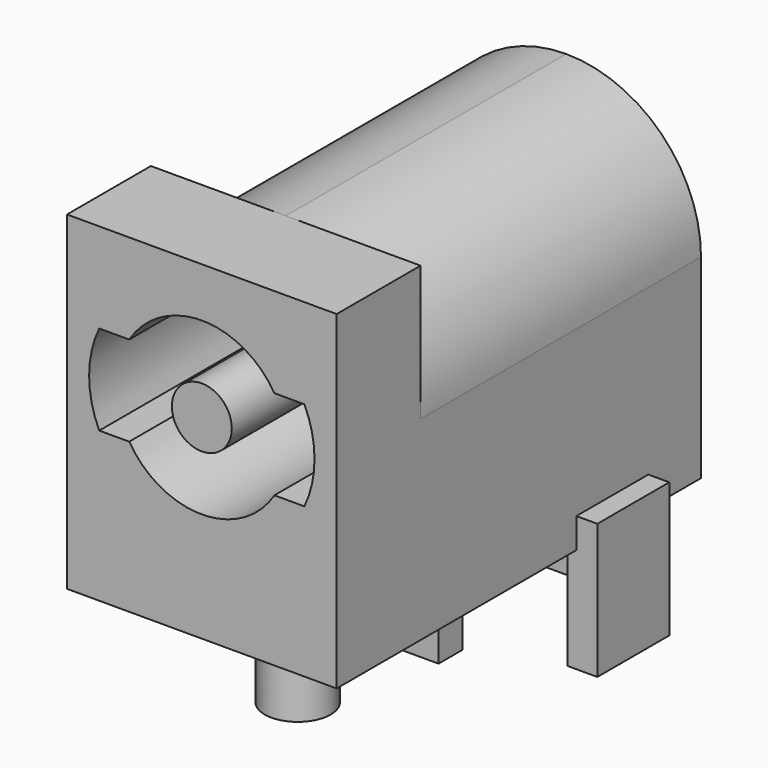
from build123d import *

# Parameters (mm, degrees)
F0_W          = 9
F0_H          = 15.2
F1_DEPTH      = 11
F3_DEPTH      = 11.7
F4_R          = 1
F5_DEPTH      = 13
F6_R          = 1.1
F6_W          = 3
F6_H          = 1
F6_W_2        = 1
F6_H_2        = 3
F7_DEPTH      = 3.5
F7_DEPTH_BACK = 1


with BuildPart() as f1:
    # F0 (on Top) → F1 (new body)
    with BuildSketch(Plane.XY):
        Rectangle(F0_W, F0_H)
    extrude(amount=F1_DEPTH)

    # F2 (on face) → F3 (cut)
    with BuildSketch(Plane(origin=(0, 7.6, 0), x_dir=(-1, 0, 0), z_dir=(0, 1, 0))):
        with BuildLine():
            ThreePointArc((-4.5, 6.5), (-3.181981, 9.681981), (0, 11))
            Line((0, 11), (-4.5, 11))
            Line((-4.5, 11), (-4.5, 6.5))
        make_face()
        with BuildLine():
            ThreePointArc((0, 11), (3.181981, 9.681981), (4.5, 6.5))
            Line((4.5, 6.5), (4.5, 11))
            Line((4.5, 11), (0, 11))
        make_face()
    extrude(amount=-F3_DEPTH, mode=Mode.SUBTRACT)

    # F4 (on face) → F5 (cut)
    with BuildSketch(Plane.XZ.offset(7.6)):
        with BuildLine():
            ThreePointArc((2.423324, 5), (2.741256, 5.720248), (2.85, 6.5))
            ThreePointArc((2.85, 6.5), (2.741256, 7.279752), (2.423324, 8))
            ThreePointArc((2.423324, 8), (0, 9.35), (-2.423324, 8))
            ThreePointArc((-2.423324, 8), (-2.85, 6.5), (-2.423324, 5))
            ThreePointArc((-2.423324, 5), (0, 3.65), (2.423324, 5))
        make_face()
        with Locations((0, 6.5)):
            Circle(F4_R, mode=Mode.SUBTRACT)
        with BuildLine():
            ThreePointArc((-2.423324, 5), (-2.85, 6.5), (-2.423324, 8))
            Line((-2.423324, 8), (-3.423324, 8))
            ThreePointArc((-3.423324, 8), (-3.761047, 6.5), (-3.423324, 5))
            Line((-3.423324, 5), (-2.423324, 5))
        make_face()
        with BuildLine():
            ThreePointArc((2.423324, 8), (2.741256, 7.279752), (2.85, 6.5))
            ThreePointArc((2.85, 6.5), (2.741256, 5.720248), (2.423324, 5))
            Line((2.423324, 5), (3.423324, 5))
            ThreePointArc((3.423324, 5), (3.761047, 6.5), (3.423324, 8))
            Line((3.423324, 8), (2.423324, 8))
        make_face()
    extrude(amount=-F5_DEPTH, mode=Mode.SUBTRACT)

    # F6 (on face) → F7 (join, two sides)
    with BuildSketch(Plane(origin=(0, 0, 0), x_dir=(1, 0, 0), z_dir=(0, 0, -1))) as f7_sk:
        with Locations((0, 3.6)):
            Circle(F6_R)
        with Locations((0, -0.9)):
            Rectangle(F6_W, F6_H)
        with Locations((0, -6.9)):
            Rectangle(F6_W, F6_H)
        with Locations((4.7, -3.9)):
            Rectangle(F6_W_2, F6_H_2)
    extrude(amount=F7_DEPTH)
    extrude(f7_sk.sketch, amount=-F7_DEPTH_BACK)


solid = f1.part
